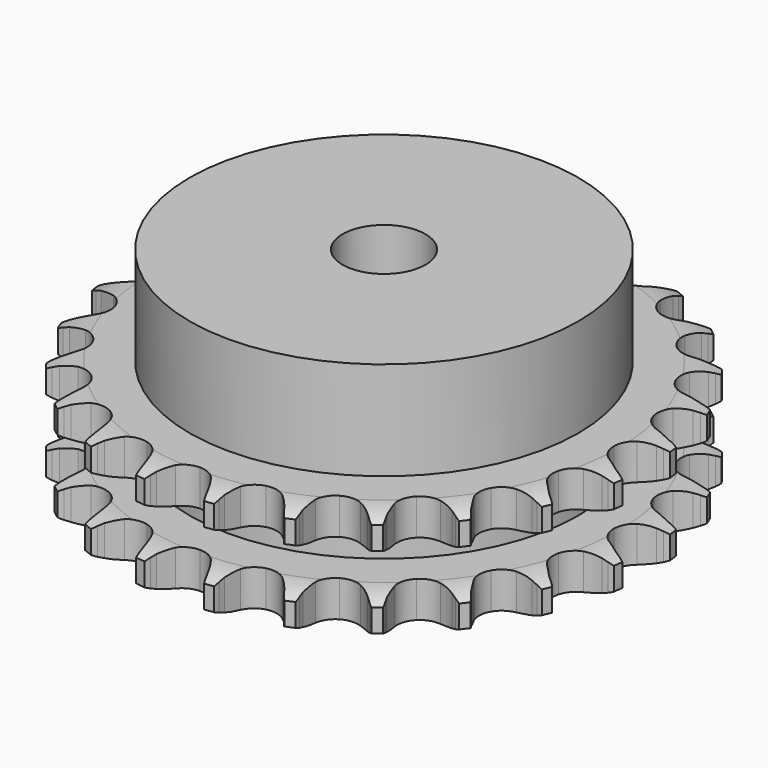
from build123d import *

# Parameters (mm, degrees)
PAD_DEPTH         = 21
SKETCH001_R       = 37.5
PAD001_DEPTH      = 40
SKETCH002_R       = 8
POCKET_DEPTH      = 0.001
POCKET_DEPTH_BACK = 40.001


with BuildPart() as part:
    # Sprocket → Pad (new body)
    with BuildSketch(Plane.XY):
        with BuildLine():
            ThreePointArc((-6.844882, 51.992044), (-5.975969, 50.915436), (-5.336613, 49.688521))
            Line((-5.336613, 49.688521), (-4.923413, 48.657188))
            ThreePointArc((-4.923413, 48.657188), (-4.2633, 47.288632), (-3.422824, 46.022815))
            ThreePointArc((-3.422824, 46.022815), (-1.908199, 44.779794), (0, 44.334865))
            ThreePointArc((0, 44.334865), (1.908199, 44.779794), (3.422824, 46.022815))
            ThreePointArc((3.422824, 46.022815), (4.2633, 47.288632), (4.923413, 48.657188))
            Line((4.923413, 48.657188), (5.336613, 49.688521))
            ThreePointArc((5.336613, 49.688521), (5.975969, 50.915436), (6.844882, 51.992044))
            ThreePointArc((6.844882, 51.992044), (7.405542, 50.727229), (7.705563, 49.376643))
            Line((7.705563, 49.376643), (7.837755, 48.273507))
            ThreePointArc((7.837755, 48.273507), (8.121167, 46.780734), (8.605387, 45.340517))
            ThreePointArc((8.605387, 45.340517), (9.746685, 43.747838), (11.474707, 42.824191))
            ThreePointArc((11.474707, 42.824191), (13.433043, 42.760081), (15.217775, 43.568733))
            Line((15.217775, 43.568733), (17.349059, 45.724961))
            ThreePointArc((17.349059, 45.724961), (17.670973, 46.177907), (18.015108, 46.614209))
            ThreePointArc((18.015108, 46.614209), (18.950227, 47.63384), (20.06818, 48.448872))
            ThreePointArc((20.06818, 48.448872), (20.282377, 47.082045), (20.222618, 45.699828))
            Line((20.222618, 45.699828), (20.064793, 44.600067))
            ThreePointArc((20.064793, 44.600067), (19.95219, 43.084807), (20.047155, 41.568338))
            ThreePointArc((20.047155, 41.568338), (20.737348, 39.734539), (22.167432, 38.395119))
            ThreePointArc((22.167432, 38.395119), (24.042446, 37.82634), (25.97566, 38.145515))
            Line((25.97566, 38.145515), (28.592395, 39.676654))
            ThreePointArc((28.592395, 39.676654), (29.020571, 40.030848), (29.465903, 40.363215))
            ThreePointArc((29.465903, 40.363215), (30.633059, 41.106077), (31.923864, 41.603989))
            ThreePointArc((31.923864, 41.603989), (31.777002, 40.228298), (31.361535, 38.908646))
            Line((31.361535, 38.908646), (30.924449, 37.887206))
            ThreePointArc((30.924449, 37.887206), (30.423504, 36.452721), (30.122742, 34.963346))
            ThreePointArc((30.122742, 34.963346), (30.314796, 33.013397), (31.349483, 31.349483))
            ThreePointArc((31.349483, 31.349483), (33.013397, 30.314796), (34.963346, 30.122742))
            Line((34.963346, 30.122742), (37.887206, 30.924449))
            ThreePointArc((37.887206, 30.924449), (38.392465, 31.155754), (38.908646, 31.361535))
            ThreePointArc((38.908646, 31.361535), (40.228298, 31.777002), (41.603989, 31.923864))
            ThreePointArc((41.603989, 31.923864), (41.106077, 30.633059), (40.363215, 29.465903))
            Line((40.363215, 29.465903), (39.676654, 28.592395))
            ThreePointArc((39.676654, 28.592395), (38.821506, 27.336442), (38.145515, 25.97566))
            ThreePointArc((38.145515, 25.97566), (37.82634, 24.042446), (38.395119, 22.167432))
            ThreePointArc((38.395119, 22.167432), (39.734539, 20.737348), (41.568338, 20.047155))
            Line((41.568338, 20.047155), (44.600067, 20.064793))
            ThreePointArc((44.600067, 20.064793), (45.147976, 20.157446), (45.699828, 20.222618))
            ThreePointArc((45.699828, 20.222618), (47.082045, 20.282377), (48.448872, 20.06818))
            ThreePointArc((48.448872, 20.06818), (47.63384, 18.950227), (46.614209, 18.015108))
            Line((46.614209, 18.015108), (45.724961, 17.349059))
            ThreePointArc((45.724961, 17.349059), (44.573888, 16.35723), (43.568733, 15.217775))
            ThreePointArc((43.568733, 15.217775), (42.760081, 13.433043), (42.824191, 11.474707))
            ThreePointArc((42.824191, 11.474707), (43.747838, 9.746685), (45.340517, 8.605387))
            Line((45.340517, 8.605387), (48.273507, 7.837755))
            ThreePointArc((48.273507, 7.837755), (48.826727, 7.785442), (49.376643, 7.705563))
            ThreePointArc((49.376643, 7.705563), (50.727229, 7.405542), (51.992044, 6.844882))
            ThreePointArc((51.992044, 6.844882), (50.915436, 5.975969), (49.688521, 5.336613))
            Line((49.688521, 5.336613), (48.657188, 4.923413))
            ThreePointArc((48.657188, 4.923413), (47.288632, 4.2633), (46.022815, 3.422824))
            ThreePointArc((46.022815, 3.422824), (44.779794, 1.908199), (44.334865, 0))
            ThreePointArc((44.334865, 0), (44.779794, -1.908199), (46.022815, -3.422824))
            Line((46.022815, -3.422824), (48.657188, -4.923413))
            ThreePointArc((48.657188, -4.923413), (49.178017, -5.117128), (49.688521, -5.336613))
            ThreePointArc((49.688521, -5.336613), (50.915436, -5.975969), (51.992044, -6.844882))
            ThreePointArc((51.992044, -6.844882), (50.727229, -7.405542), (49.376643, -7.705563))
            Line((49.376643, -7.705563), (48.273507, -7.837755))
            ThreePointArc((48.273507, -7.837755), (46.780734, -8.121167), (45.340517, -8.605387))
            ThreePointArc((45.340517, -8.605387), (43.747838, -9.746685), (42.824191, -11.474707))
            ThreePointArc((42.824191, -11.474707), (42.760081, -13.433043), (43.568733, -15.217775))
            Line((43.568733, -15.217775), (45.724961, -17.349059))
            ThreePointArc((45.724961, -17.349059), (46.177907, -17.670973), (46.614209, -18.015108))
            ThreePointArc((46.614209, -18.015108), (47.63384, -18.950227), (48.448872, -20.06818))
            ThreePointArc((48.448872, -20.06818), (47.082045, -20.282377), (45.699828, -20.222618))
            Line((45.699828, -20.222618), (44.600067, -20.064793))
            ThreePointArc((44.600067, -20.064793), (43.084807, -19.95219), (41.568338, -20.047155))
            ThreePointArc((41.568338, -20.047155), (39.734539, -20.737348), (38.395119, -22.167432))
            ThreePointArc((38.395119, -22.167432), (37.82634, -24.042446), (38.145515, -25.97566))
            Line((38.145515, -25.97566), (39.676654, -28.592395))
            ThreePointArc((39.676654, -28.592395), (40.030848, -29.020571), (40.363215, -29.465903))
            ThreePointArc((40.363215, -29.465903), (41.106077, -30.633059), (41.603989, -31.923864))
            ThreePointArc((41.603989, -31.923864), (40.228298, -31.777002), (38.908646, -31.361535))
            Line((38.908646, -31.361535), (37.887206, -30.924449))
            ThreePointArc((37.887206, -30.924449), (36.452721, -30.423504), (34.963346, -30.122742))
            ThreePointArc((34.963346, -30.122742), (33.013397, -30.314796), (31.349483, -31.349483))
            ThreePointArc((31.349483, -31.349483), (30.314796, -33.013397), (30.122742, -34.963346))
            Line((30.122742, -34.963346), (30.924449, -37.887206))
            ThreePointArc((30.924449, -37.887206), (31.155754, -38.392465), (31.361535, -38.908646))
            ThreePointArc((31.361535, -38.908646), (31.777002, -40.228298), (31.923864, -41.603989))
            ThreePointArc((31.923864, -41.603989), (30.633059, -41.106077), (29.465903, -40.363215))
            Line((29.465903, -40.363215), (28.592395, -39.676654))
            ThreePointArc((28.592395, -39.676654), (27.336442, -38.821506), (25.97566, -38.145515))
            ThreePointArc((25.97566, -38.145515), (24.042446, -37.82634), (22.167432, -38.395119))
            ThreePointArc((22.167432, -38.395119), (20.737348, -39.734539), (20.047155, -41.568338))
            Line((20.047155, -41.568338), (20.064793, -44.600067))
            ThreePointArc((20.064793, -44.600067), (20.157446, -45.147976), (20.222618, -45.699828))
            ThreePointArc((20.222618, -45.699828), (20.282377, -47.082045), (20.06818, -48.448872))
            ThreePointArc((20.06818, -48.448872), (18.950227, -47.63384), (18.015108, -46.614209))
            Line((18.015108, -46.614209), (17.349059, -45.724961))
            ThreePointArc((17.349059, -45.724961), (16.35723, -44.573888), (15.217775, -43.568733))
            ThreePointArc((15.217775, -43.568733), (13.433043, -42.760081), (11.474707, -42.824191))
            ThreePointArc((11.474707, -42.824191), (9.746685, -43.747838), (8.605387, -45.340517))
            Line((8.605387, -45.340517), (7.837755, -48.273507))
            ThreePointArc((7.837755, -48.273507), (7.785442, -48.826727), (7.705563, -49.376643))
            ThreePointArc((7.705563, -49.376643), (7.405542, -50.727229), (6.844882, -51.992044))
            ThreePointArc((6.844882, -51.992044), (5.975969, -50.915436), (5.336613, -49.688521))
            Line((5.336613, -49.688521), (4.923413, -48.657188))
            ThreePointArc((4.923413, -48.657188), (4.2633, -47.288632), (3.422824, -46.022815))
            ThreePointArc((3.422824, -46.022815), (1.908199, -44.779794), (0, -44.334865))
            ThreePointArc((0, -44.334865), (-1.908199, -44.779794), (-3.422824, -46.022815))
            Line((-3.422824, -46.022815), (-4.923413, -48.657188))
            ThreePointArc((-4.923413, -48.657188), (-5.117128, -49.178017), (-5.336613, -49.688521))
            ThreePointArc((-5.336613, -49.688521), (-5.975969, -50.915436), (-6.844882, -51.992044))
            ThreePointArc((-6.844882, -51.992044), (-7.405542, -50.727229), (-7.705563, -49.376643))
            Line((-7.705563, -49.376643), (-7.837755, -48.273507))
            ThreePointArc((-7.837755, -48.273507), (-8.121167, -46.780734), (-8.605387, -45.340517))
            ThreePointArc((-8.605387, -45.340517), (-9.746685, -43.747838), (-11.474707, -42.824191))
            ThreePointArc((-11.474707, -42.824191), (-13.433043, -42.760081), (-15.217775, -43.568733))
            Line((-15.217775, -43.568733), (-17.349059, -45.724961))
            ThreePointArc((-17.349059, -45.724961), (-17.670973, -46.177907), (-18.015108, -46.614209))
            ThreePointArc((-18.015108, -46.614209), (-18.950227, -47.63384), (-20.06818, -48.448872))
            ThreePointArc((-20.06818, -48.448872), (-20.282377, -47.082045), (-20.222618, -45.699828))
            Line((-20.222618, -45.699828), (-20.064793, -44.600067))
            ThreePointArc((-20.064793, -44.600067), (-19.95219, -43.084807), (-20.047155, -41.568338))
            ThreePointArc((-20.047155, -41.568338), (-20.737348, -39.734539), (-22.167432, -38.395119))
            ThreePointArc((-22.167432, -38.395119), (-24.042446, -37.82634), (-25.97566, -38.145515))
            Line((-25.97566, -38.145515), (-28.592395, -39.676654))
            ThreePointArc((-28.592395, -39.676654), (-29.020571, -40.030848), (-29.465903, -40.363215))
            ThreePointArc((-29.465903, -40.363215), (-30.633059, -41.106077), (-31.923864, -41.603989))
            ThreePointArc((-31.923864, -41.603989), (-31.777002, -40.228298), (-31.361535, -38.908646))
            Line((-31.361535, -38.908646), (-30.924449, -37.887206))
            ThreePointArc((-30.924449, -37.887206), (-30.423504, -36.452721), (-30.122742, -34.963346))
            ThreePointArc((-30.122742, -34.963346), (-30.314796, -33.013397), (-31.349483, -31.349483))
            ThreePointArc((-31.349483, -31.349483), (-33.013397, -30.314796), (-34.963346, -30.122742))
            Line((-34.963346, -30.122742), (-37.887206, -30.924449))
            ThreePointArc((-37.887206, -30.924449), (-38.392465, -31.155754), (-38.908646, -31.361535))
            ThreePointArc((-38.908646, -31.361535), (-40.228298, -31.777002), (-41.603989, -31.923864))
            ThreePointArc((-41.603989, -31.923864), (-41.106077, -30.633059), (-40.363215, -29.465903))
            Line((-40.363215, -29.465903), (-39.676654, -28.592395))
            ThreePointArc((-39.676654, -28.592395), (-38.821506, -27.336442), (-38.145515, -25.97566))
            ThreePointArc((-38.145515, -25.97566), (-37.82634, -24.042446), (-38.395119, -22.167432))
            ThreePointArc((-38.395119, -22.167432), (-39.734539, -20.737348), (-41.568338, -20.047155))
            Line((-41.568338, -20.047155), (-44.600067, -20.064793))
            ThreePointArc((-44.600067, -20.064793), (-45.147976, -20.157446), (-45.699828, -20.222618))
            ThreePointArc((-45.699828, -20.222618), (-47.082045, -20.282377), (-48.448872, -20.06818))
            ThreePointArc((-48.448872, -20.06818), (-47.63384, -18.950227), (-46.614209, -18.015108))
            Line((-46.614209, -18.015108), (-45.724961, -17.349059))
            ThreePointArc((-45.724961, -17.349059), (-44.573888, -16.35723), (-43.568733, -15.217775))
            ThreePointArc((-43.568733, -15.217775), (-42.760081, -13.433043), (-42.824191, -11.474707))
            ThreePointArc((-42.824191, -11.474707), (-43.747838, -9.746685), (-45.340517, -8.605387))
            Line((-45.340517, -8.605387), (-48.273507, -7.837755))
            ThreePointArc((-48.273507, -7.837755), (-48.826727, -7.785442), (-49.376643, -7.705563))
            ThreePointArc((-49.376643, -7.705563), (-50.727229, -7.405542), (-51.992044, -6.844882))
            ThreePointArc((-51.992044, -6.844882), (-50.915436, -5.975969), (-49.688521, -5.336613))
            Line((-49.688521, -5.336613), (-48.657188, -4.923413))
            ThreePointArc((-48.657188, -4.923413), (-47.288632, -4.2633), (-46.022815, -3.422824))
            ThreePointArc((-46.022815, -3.422824), (-44.779794, -1.908199), (-44.334865, 0))
            ThreePointArc((-44.334865, 0), (-44.779794, 1.908199), (-46.022815, 3.422824))
            Line((-46.022815, 3.422824), (-48.657188, 4.923413))
            ThreePointArc((-48.657188, 4.923413), (-49.178017, 5.117128), (-49.688521, 5.336613))
            ThreePointArc((-49.688521, 5.336613), (-50.915436, 5.975969), (-51.992044, 6.844882))
            ThreePointArc((-51.992044, 6.844882), (-50.727229, 7.405542), (-49.376643, 7.705563))
            Line((-49.376643, 7.705563), (-48.273507, 7.837755))
            ThreePointArc((-48.273507, 7.837755), (-46.780734, 8.121167), (-45.340517, 8.605387))
            ThreePointArc((-45.340517, 8.605387), (-43.747838, 9.746685), (-42.824191, 11.474707))
            ThreePointArc((-42.824191, 11.474707), (-42.760081, 13.433043), (-43.568733, 15.217775))
            Line((-43.568733, 15.217775), (-45.724961, 17.349059))
            ThreePointArc((-45.724961, 17.349059), (-46.177907, 17.670973), (-46.614209, 18.015108))
            ThreePointArc((-46.614209, 18.015108), (-47.63384, 18.950227), (-48.448872, 20.06818))
            ThreePointArc((-48.448872, 20.06818), (-47.082045, 20.282377), (-45.699828, 20.222618))
            Line((-45.699828, 20.222618), (-44.600067, 20.064793))
            ThreePointArc((-44.600067, 20.064793), (-43.084807, 19.95219), (-41.568338, 20.047155))
            ThreePointArc((-41.568338, 20.047155), (-39.734539, 20.737348), (-38.395119, 22.167432))
            ThreePointArc((-38.395119, 22.167432), (-37.82634, 24.042446), (-38.145515, 25.97566))
            Line((-38.145515, 25.97566), (-39.676654, 28.592395))
            ThreePointArc((-39.676654, 28.592395), (-40.030848, 29.020571), (-40.363215, 29.465903))
            ThreePointArc((-40.363215, 29.465903), (-41.106077, 30.633059), (-41.603989, 31.923864))
            ThreePointArc((-41.603989, 31.923864), (-40.228298, 31.777002), (-38.908646, 31.361535))
            Line((-38.908646, 31.361535), (-37.887206, 30.924449))
            ThreePointArc((-37.887206, 30.924449), (-36.452721, 30.423504), (-34.963346, 30.122742))
            ThreePointArc((-34.963346, 30.122742), (-33.013397, 30.314796), (-31.349483, 31.349483))
            ThreePointArc((-31.349483, 31.349483), (-30.314796, 33.013397), (-30.122742, 34.963346))
            Line((-30.122742, 34.963346), (-30.924449, 37.887206))
            ThreePointArc((-30.924449, 37.887206), (-31.155754, 38.392465), (-31.361535, 38.908646))
            ThreePointArc((-31.361535, 38.908646), (-31.777002, 40.228298), (-31.923864, 41.603989))
            ThreePointArc((-31.923864, 41.603989), (-30.633059, 41.106077), (-29.465903, 40.363215))
            Line((-29.465903, 40.363215), (-28.592395, 39.676654))
            ThreePointArc((-28.592395, 39.676654), (-27.336442, 38.821506), (-25.97566, 38.145515))
            ThreePointArc((-25.97566, 38.145515), (-24.042446, 37.82634), (-22.167432, 38.395119))
            ThreePointArc((-22.167432, 38.395119), (-20.737348, 39.734539), (-20.047155, 41.568338))
            Line((-20.047155, 41.568338), (-20.064793, 44.600067))
            ThreePointArc((-20.064793, 44.600067), (-20.157446, 45.147976), (-20.222618, 45.699828))
            ThreePointArc((-20.222618, 45.699828), (-20.282377, 47.082045), (-20.06818, 48.448872))
            ThreePointArc((-20.06818, 48.448872), (-18.950227, 47.63384), (-18.015108, 46.614209))
            Line((-18.015108, 46.614209), (-17.349059, 45.724961))
            ThreePointArc((-17.349059, 45.724961), (-16.35723, 44.573888), (-15.217775, 43.568733))
            ThreePointArc((-15.217775, 43.568733), (-13.433043, 42.760081), (-11.474707, 42.824191))
            ThreePointArc((-11.474707, 42.824191), (-9.746685, 43.747838), (-8.605387, 45.340517))
            Line((-8.605387, 45.340517), (-7.837755, 48.273507))
            ThreePointArc((-7.837755, 48.273507), (-7.785442, 48.826727), (-7.705563, 49.376643))
            ThreePointArc((-7.705563, 49.376643), (-7.405542, 50.727229), (-6.844882, 51.992044))
        make_face()
    extrude(amount=PAD_DEPTH)

    # Sketch → Groove (revolve, cut)
    with BuildSketch(Plane.XZ):
        with BuildLine():
            ThreePointArc((45.233431, 0), (48.14032, 0.329167), (50.9, 1.3))
            Line((50.9, 1.3), (50.9, 5.7))
            ThreePointArc((50.9, 5.7), (48.14032, 6.670833), (45.233431, 7))
            Line((37.5, 7), (45.233431, 7))
            Line((37.5, 14), (37.5, 7))
            Line((45.233431, 14), (37.5, 14))
            ThreePointArc((45.233431, 14), (48.14032, 14.329167), (50.9, 15.3))
            Line((50.9, 15.3), (50.9, 19.7))
            ThreePointArc((50.9, 19.7), (48.14032, 20.670833), (45.233431, 21))
            Line((45.233431, 21), (55.233431, 21))
            Line((55.233431, 21), (55.233431, 0))
            Line((45.233431, 0), (55.233431, 0))
        make_face()
    revolve(axis=Axis((0, 0, 0), (0, 0, 1)), mode=Mode.SUBTRACT)

    # Sketch001 → Pad001 (join)
    with BuildSketch(Plane.XY):
        Circle(SKETCH001_R)
    extrude(amount=PAD001_DEPTH)

    # Sketch002 → Pocket (cut, two sides)
    with BuildSketch(Plane.XY) as pocket_sk:
        Circle(SKETCH002_R)
    extrude(amount=-POCKET_DEPTH, mode=Mode.SUBTRACT)
    extrude(pocket_sk.sketch, amount=POCKET_DEPTH_BACK, mode=Mode.SUBTRACT)


solid = part.part
